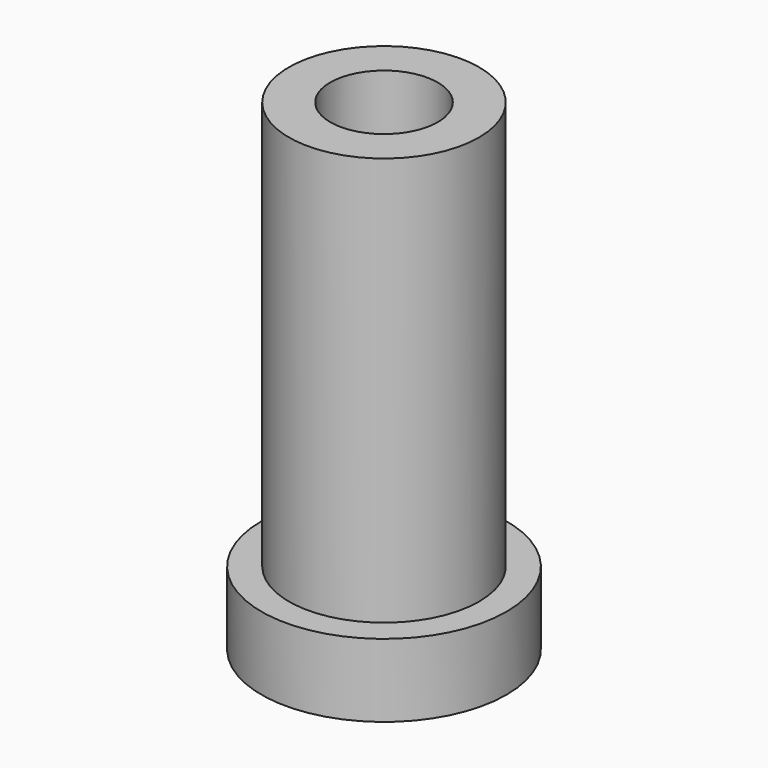
from build123d import *

# Parameters (mm, degrees)
F0_R     = 5.616207
F1_DEPTH = 28.448
F2_R     = 7.235585
F3_DEPTH = 4.318
F5_D     = 6.35


with BuildPart() as f1:
    # F0 (on Top) → F1 (new body)
    with BuildSketch(Plane.XY):
        Circle(F0_R)
    extrude(amount=F1_DEPTH)

    # F2 (on Top) → F3 (join)
    with BuildSketch(Plane.XY):
        Circle(F2_R)
    extrude(amount=F3_DEPTH)

    # F5 (through all)
    with Locations(Plane(origin=(0, 0, 0), x_dir=(1, 0, 0), z_dir=(0, 0, -1))):
        with Locations((0, 0)):
            Hole(F5_D / 2)


solid = f1.part
